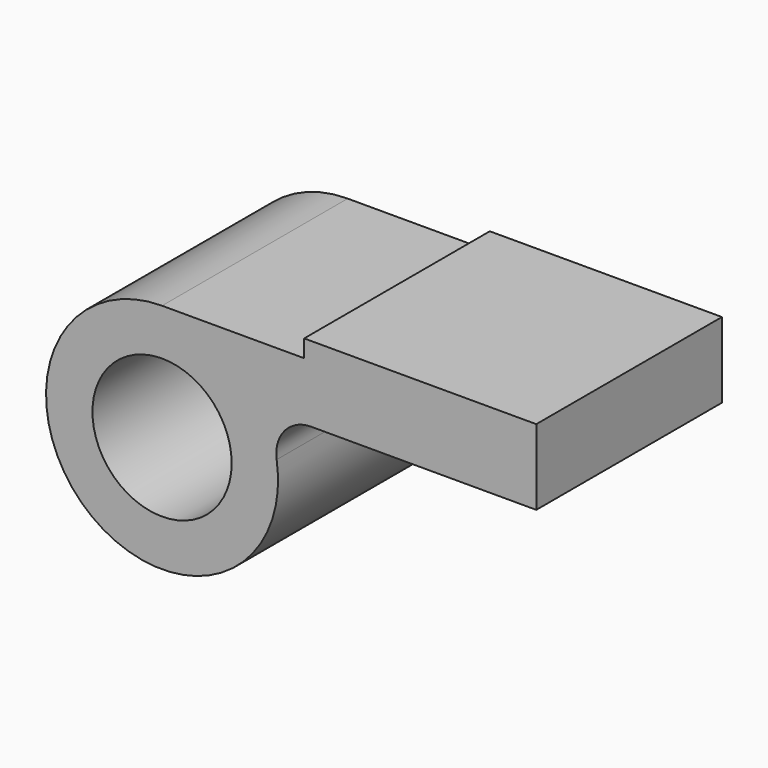
from build123d import *

# Parameters (mm, degrees)
F0_R     = 19.05
F1_DEPTH = 63.5


with BuildPart() as f1:
    # F0 (on Front) → F1 (new body)
    with BuildSketch(Plane.XZ):
        with BuildLine():
            Line((38.8874, 31.75), (0, 31.75))
            ThreePointArc((0, 31.75), (-20.651585, -24.115856), (31.37201, 4.884615))
            ThreePointArc((31.37201, 4.884615), (33.548857, 12.545476), (40.783613, 15.875))
            Line((40.783613, 15.875), (102.4128, 15.875))
            Line((102.4128, 15.875), (102.4128, 36.5252))
            Line((102.4128, 36.5252), (38.8874, 36.5252))
            Line((38.8874, 36.5252), (38.8874, 31.75))
        make_face()
        Circle(F0_R, mode=Mode.SUBTRACT)
    extrude(amount=F1_DEPTH)


solid = f1.part
